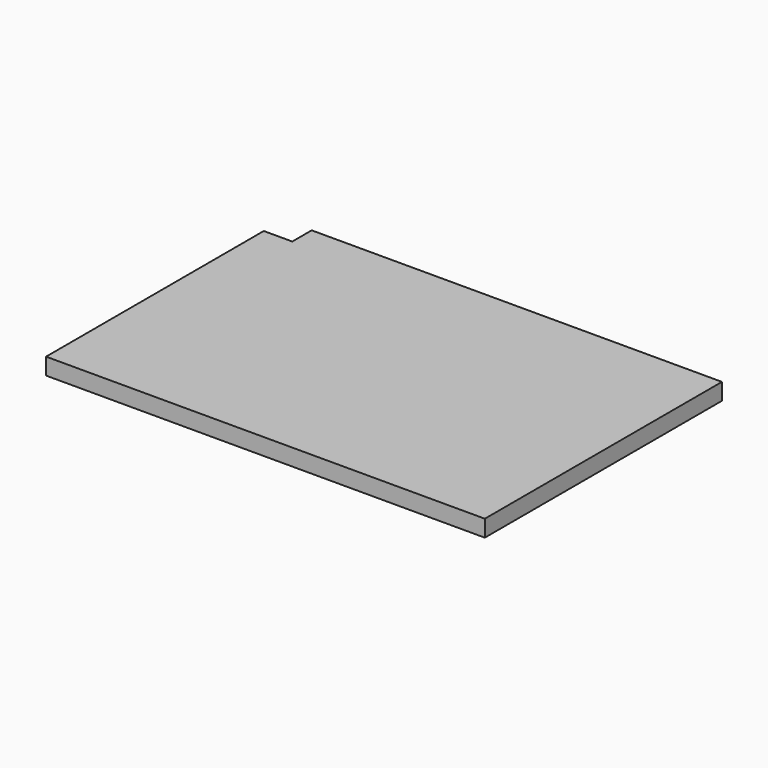
from build123d import *

# Parameters (mm, degrees)
EXTRUDE_DEPTH = 5.9944


with BuildPart() as part:
    # Sketch → Extrude (new body)
    with BuildSketch(Plane.XY):
        Polygon((-55.910745, -85.905962), (101.569255, -85.905962), (101.569255, 20.469238), (-45.674545, 20.469238), (-45.674545, 11.757038), (-55.910745, 11.757038), align=None)
    extrude(amount=EXTRUDE_DEPTH)


solid = part.part
